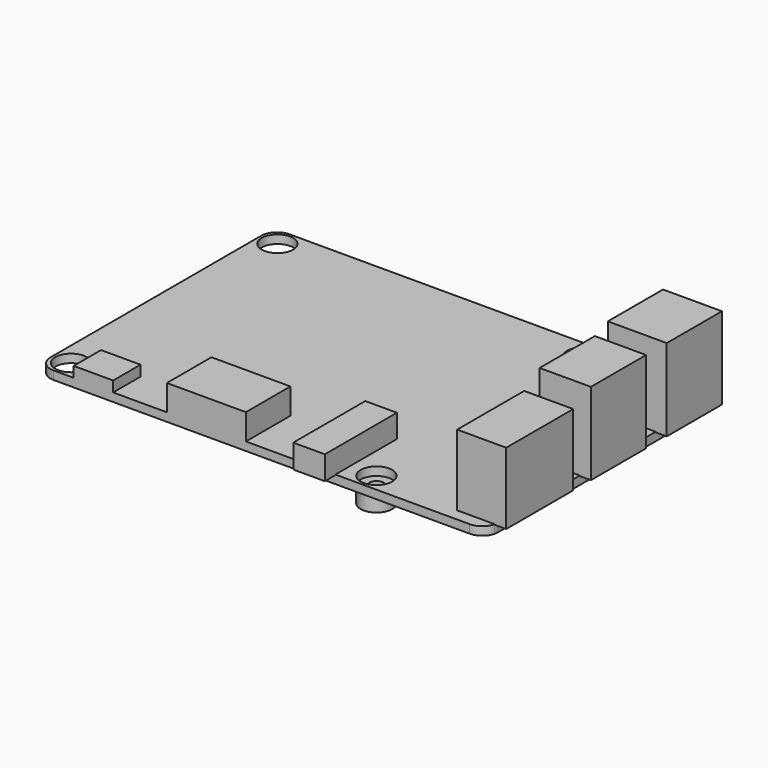
from build123d import *

# Parameters (mm, degrees)
F0_W     = 14.6
F0_H     = 14.6
F0_R     = 3
F0_W_2   = 7.6352092624
F0_H_2   = 13.1
F0_W_3   = 6
F0_H_3   = 14.598642543
F0_W_4   = 15
F0_H_4   = 10.5779423118
F0_W_5   = 7.5
F0_H_5   = 6.4980006516
F1_DEPTH = 1.6
F2_DEPTH = 1.7
F0_W_6   = 2.1
F3_DEPTH = 17.1
F4_DEPTH = 15.1
F0_H_6   = 2.5
F5_DEPTH = 6
F6_DEPTH = 6.5
F7_DEPTH = 1.5
F8_DEPTH = 3.6
F0_R_2   = 1.375
F9_DEPTH = 3


with BuildPart() as f1:
    # F0 (on Top) → F1 (new body)
    with BuildSketch(Plane.XY):
        with Locations((-35.2, -0.8)):
            Rectangle(F0_W, F0_H)
        with BuildLine():
            ThreePointArc((-42.5, -25), (-41.6213203436, -27.1213203436), (-39.5, -28))
            Line((-39.5, -28), (-35.7, -28))
            Line((-35.7, -28), (-35.7, -21.5019993484))
            Line((-35.7, -21.5019993484), (-28.2, -21.5019993484))
            Line((-28.2, -21.5019993484), (-28.2, -28))
            Line((-28.2, -28), (-18, -28))
            Line((-18, -28), (-18, -17.4220576882))
            Line((-18, -17.4220576882), (-3, -17.4220576882))
            Line((-3, -17.4220576882), (-3, -28))
            Line((-3, -28), (8, -28))
            Line((8, -28), (8, -13.401357457))
            Line((8, -13.401357457), (14, -13.401357457))
            Line((14, -13.401357457), (14, -28))
            Line((14, -28), (39.5, -28))
            ThreePointArc((39.5, -28), (41.3574175621, -27.3558437979), (42.4171904292, -25.7))
            Line((42.4171904292, -25.7), (35.2872274816, -25.7))
            Line((35.2872274816, -25.7), (35.2872274816, -9.8))
            Line((35.2872274816, -9.8), (42.5, -9.8))
            Line((42.5, -9.8), (42.5, -5.6))
            Line((42.5, -5.6), (34.8647907376, -5.6))
            Line((34.8647907376, -5.6), (34.8647907376, 7.5))
            Line((34.8647907376, 7.5), (42.5, 7.5))
            Line((42.5, 7.5), (42.5, 12.4))
            Line((42.5, 12.4), (33.4132947028, 12.4))
            Line((33.4132947028, 12.4), (33.4132947028, 25.5))
            Line((33.4132947028, 25.5), (42.4580398915, 25.5))
            ThreePointArc((42.4580398915, 25.5), (41.4364916731, 27.2912878475), (39.5, 28))
            Line((39.5, 28), (-39.5, 28))
            ThreePointArc((-39.5, 28), (-41.6213203436, 27.1213203436), (-42.5, 25))
            Line((-42.5, 25), (-42.5, 6.5))
            Line((-42.5, 6.5), (-27.9, 6.5))
            Line((-27.9, 6.5), (-27.9, -8.1))
            Line((-27.9, -8.1), (-42.5, -8.1))
            Line((-42.5, -8.1), (-42.5, -25))
        make_face()
        with Locations((-39, -24.5)):
            Circle(F0_R, mode=Mode.SUBTRACT)
        with Locations((19, -24.5)):
            Circle(F0_R, mode=Mode.SUBTRACT)
        with Locations((-39, 24.5)):
            Circle(F0_R, mode=Mode.SUBTRACT)
        with Locations((19, 24.5)):
            Circle(F0_R, mode=Mode.SUBTRACT)
        with BuildLine():
            Line((35.2872274816, -25.7), (42.4171904292, -25.7))
            ThreePointArc((42.4171904292, -25.7), (42.4792256786, -25.3524405712), (42.5, -25))
            Line((42.5, -25), (42.5, -9.8))
            Line((42.5, -9.8), (35.2872274816, -9.8))
            Line((35.2872274816, -9.8), (35.2872274816, -25.7))
        make_face()
        with Locations((38.6823953688, 0.95)):
            Rectangle(F0_W_2, F0_H_2)
        with BuildLine():
            ThreePointArc((42.5, 25), (42.4894915684, 25.2508787808), (42.4580398915, 25.5))
            Line((42.4580398915, 25.5), (33.4132947028, 25.5))
            Line((33.4132947028, 25.5), (33.4132947028, 12.4))
            Line((33.4132947028, 12.4), (42.5, 12.4))
            Line((42.5, 12.4), (42.5, 25))
        make_face()
        with Locations((11, -20.7006787285)):
            Rectangle(F0_W_3, F0_H_3)
        with Locations((-10.5, -22.7110288441)):
            Rectangle(F0_W_4, F0_H_4)
        with Locations((-31.95, -24.7509996742)):
            Rectangle(F0_W_5, F0_H_5)
    extrude(amount=F1_DEPTH)

    # F0 (on Top) → F2 (join)
    with BuildSketch(Plane.XY):
        with Locations((-35.2, -0.8)):
            Rectangle(F0_W, F0_H)
    extrude(amount=-F2_DEPTH)

    # F0 (on Top) → F3 (join)
    with BuildSketch(Plane.XY):
        with Locations((38.6823953688, 0.95)):
            Rectangle(F0_W_2, F0_H_2)
        with Locations((43.55, 0.95)):
            Rectangle(F0_W_6, F0_H_2)
        with BuildLine():
            ThreePointArc((42.5, 25), (42.4894915684, 25.2508787808), (42.4580398915, 25.5))
            Line((42.4580398915, 25.5), (33.4132947028, 25.5))
            Line((33.4132947028, 25.5), (33.4132947028, 12.4))
            Line((33.4132947028, 12.4), (42.5, 12.4))
            Line((42.5, 12.4), (42.5, 25))
        make_face()
        with BuildLine():
            Line((44.6, 25.5), (42.4580398915, 25.5))
            ThreePointArc((42.4580398915, 25.5), (42.4894915684, 25.2508787808), (42.5, 25))
            Line((42.5, 25), (42.5, 12.4))
            Line((42.5, 12.4), (44.6, 12.4))
            Line((44.6, 12.4), (44.6, 25.5))
        make_face()
    extrude(amount=F3_DEPTH)

    # F0 (on Top) → F4 (join)
    with BuildSketch(Plane.XY):
        with BuildLine():
            ThreePointArc((42.5, -25), (42.4792256786, -25.3524405712), (42.4171904292, -25.7))
            Line((42.4171904292, -25.7), (44.6, -25.7))
            Line((44.6, -25.7), (44.6, -9.8))
            Line((44.6, -9.8), (42.5, -9.8))
            Line((42.5, -9.8), (42.5, -25))
        make_face()
        with BuildLine():
            Line((35.2872274816, -25.7), (42.4171904292, -25.7))
            ThreePointArc((42.4171904292, -25.7), (42.4792256786, -25.3524405712), (42.5, -25))
            Line((42.5, -25), (42.5, -9.8))
            Line((42.5, -9.8), (35.2872274816, -9.8))
            Line((35.2872274816, -9.8), (35.2872274816, -25.7))
        make_face()
    extrude(amount=F4_DEPTH)

    # F0 (on Top) → F5 (join)
    with BuildSketch(Plane.XY):
        with Locations((11, -20.7006787285)):
            Rectangle(F0_W_3, F0_H_3)
        with Locations((11, -29.25)):
            Rectangle(F0_W_3, F0_H_6)
    extrude(amount=F5_DEPTH)

    # F0 (on Top) → F6 (join)
    with BuildSketch(Plane.XY):
        with Locations((-10.5, -22.7110288441)):
            Rectangle(F0_W_4, F0_H_4)
    extrude(amount=F6_DEPTH)

    # F0 (on Top) → F7 (cut)
    with BuildSketch(Plane.XY):
        with BuildLine():
            Line((44.6, 25.5), (42.4580398915, 25.5))
            ThreePointArc((42.4580398915, 25.5), (42.4894915684, 25.2508787808), (42.5, 25))
            Line((42.5, 25), (42.5, 12.4))
            Line((42.5, 12.4), (44.6, 12.4))
            Line((44.6, 12.4), (44.6, 25.5))
        make_face()
        with Locations((43.55, 0.95)):
            Rectangle(F0_W_6, F0_H_2)
        with BuildLine():
            ThreePointArc((42.5, -25), (42.4792256786, -25.3524405712), (42.4171904292, -25.7))
            Line((42.4171904292, -25.7), (44.6, -25.7))
            Line((44.6, -25.7), (44.6, -9.8))
            Line((44.6, -9.8), (42.5, -9.8))
            Line((42.5, -9.8), (42.5, -25))
        make_face()
        with Locations((11, -29.25)):
            Rectangle(F0_W_3, F0_H_6)
    extrude(amount=F7_DEPTH, mode=Mode.SUBTRACT)

    # F0 (on Top) → F8 (join)
    with BuildSketch(Plane.XY):
        with Locations((-31.95, -24.7509996742)):
            Rectangle(F0_W_5, F0_H_5)
    extrude(amount=F8_DEPTH)


with BuildPart() as f9:
    # F0 (on Top) → F9 (new body)
    with BuildSketch(Plane.XY):
        with Locations((19, -24.5)):
            Circle(F0_R)
        with Locations((19, -24.5)):
            Circle(F0_R_2, mode=Mode.SUBTRACT)
    extrude(amount=-F9_DEPTH)


solid = Compound([f1.part, f9.part])
